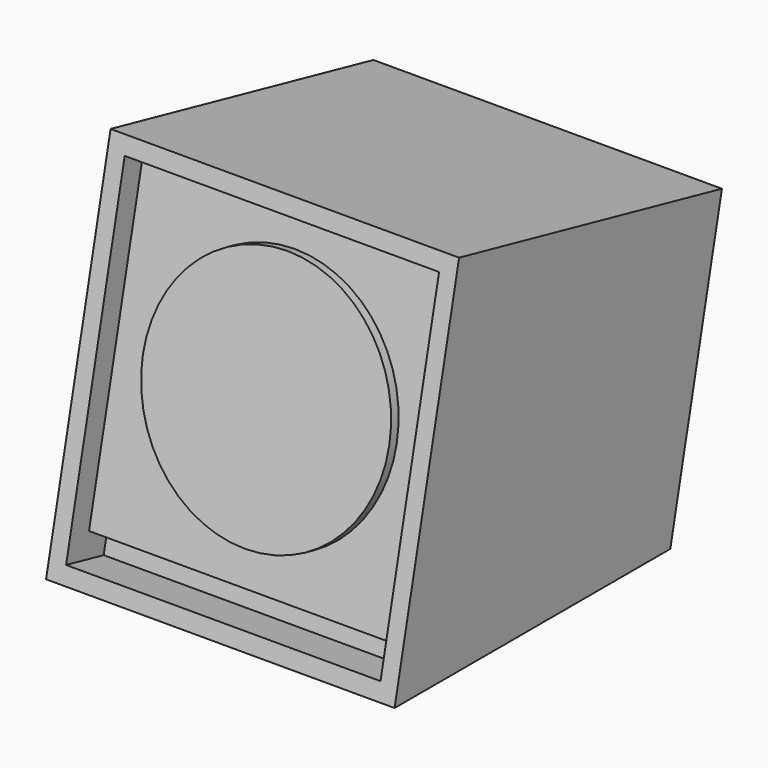
from build123d import *

# Parameters (mm, degrees)
F1_DEPTH = 368.3
F2_W     = 332.232
F2_H     = 357.632
F3_DEPTH = 25.4
F4_R     = 130.175
F5_DEPTH = 10.16
F6_W     = 332.232
F6_H     = 25.4
F7_DEPTH = 25.4


with BuildPart() as f1:
    # F0 (on Right) → F1 (new body)
    with BuildSketch(Plane.YZ):
        Polygon((85.2122760074, 384.3677380031), (0, 0), (364.2337952902, 0), (432.3831361393, 307.4018112867), align=None)
    extrude(amount=F1_DEPTH)

    # F2 (on face) → F3 (cut)
    with BuildSketch(Plane(origin=(0, 0, 0), x_dir=(1, 0, 0), z_dir=(0, -0.9762960071, 0.2164396139))):
        with Locations((184.15, 196.85)):
            Rectangle(F2_W, F2_H)
    extrude(amount=-F3_DEPTH, mode=Mode.SUBTRACT)

    # F4 (on face) → F5 (join)
    with BuildSketch(Plane(origin=(0, 24.7979185808, -5.497566194), x_dir=(1, 0, 0), z_dir=(0, -0.9762960071, 0.2164396139))):
        with Locations((184.15, 210.566)):
            Circle(F4_R)
    extrude(amount=F5_DEPTH)

    # F6 (on face) → F7 (cut)
    with BuildSketch(Plane(origin=(0, 24.7979185808, -5.497566194), x_dir=(1, 0, 0), z_dir=(0, -0.9762960071, 0.2164396139))):
        with Locations((184.15, 30.734)):
            Rectangle(F6_W, F6_H)
    extrude(amount=-F7_DEPTH, mode=Mode.SUBTRACT)


solid = f1.part
